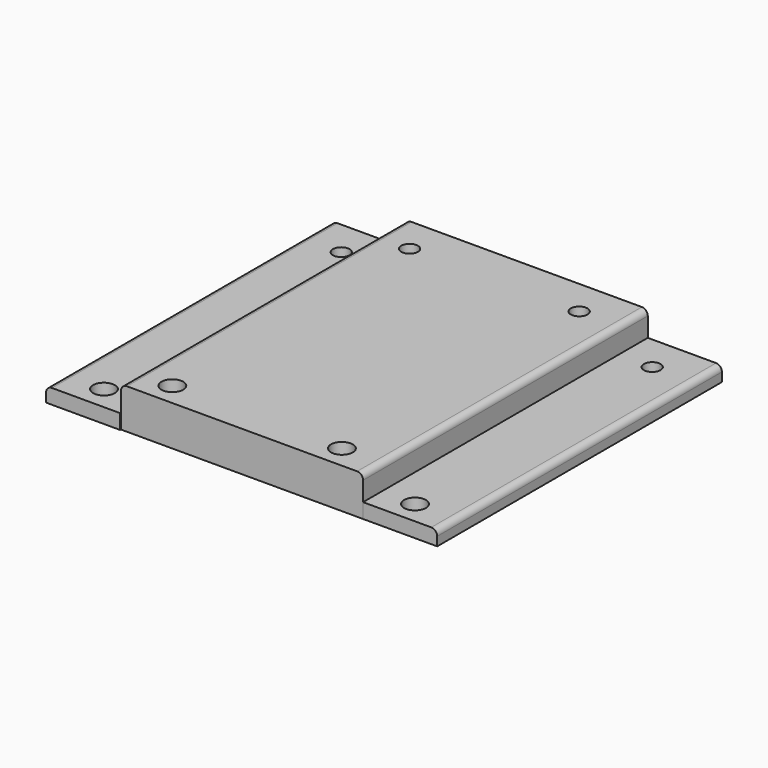
from build123d import *

# Parameters (mm, degrees)
F0_W     = 207.3402
F0_H     = 304.8
F1_DEPTH = 34.29
F2_DEPTH = 12.7
F3_R     = 5.08
F4_R     = 7.14375
F4_R_2   = 9.331431
F5_DEPTH = 34.291


with BuildPart() as f1:
    # F0 (on Top) → F1 (new body)
    with BuildSketch(Plane.XY):
        Rectangle(F0_W, F0_H)
    extrude(amount=F1_DEPTH)

    # F0 (on Top) → F2 (join)
    with BuildSketch(Plane.XY):
        Polygon((-103.6701, -152.4), (-103.6701, 152.4), (-167.1701, 152.4), (-167.1701, -153.244078), (-103.6701, -153.244078), align=None)
        Polygon((167.1701, 152.4), (103.6701, 152.4), (103.6701, -152.4), (103.6701, -152.423114), (167.1701, -152.423114), align=None)
    extrude(amount=F2_DEPTH)

    # F3
    f3_edges = [f1.edges().sort_by_distance(p)[0] for p in [
        (-167.1701, -0.422039, 12.7),
        (-103.6701, 0, 34.29),
        (103.6701, 0, 34.29),
        (167.1701, -0.011557, 12.7),
    ]]
    fillet(f3_edges, radius=F3_R)

    # F4 (on face) → F5 (cut, through all)
    with BuildSketch(Plane.XY.offset(34.29)):
        with Locations((-133.920491, 121.190689)):
            Circle(F4_R)
        with Locations((-75.377315, 121.190689)):
            Circle(F4_R)
        with Locations((69.863357, 121.190689)):
            Circle(F4_R)
        with Locations((132.428586, 121.190689)):
            Circle(F4_R)
        with Locations((132.428586, -132.809311)):
            Circle(F4_R_2)
        with Locations((69.863357, -132.809311)):
            Circle(F4_R_2)
        with Locations((-75.377315, -132.809311)):
            Circle(F4_R_2)
        with Locations((-133.920491, -132.809311)):
            Circle(F4_R_2)
    extrude(amount=-F5_DEPTH, mode=Mode.SUBTRACT)


solid = f1.part
